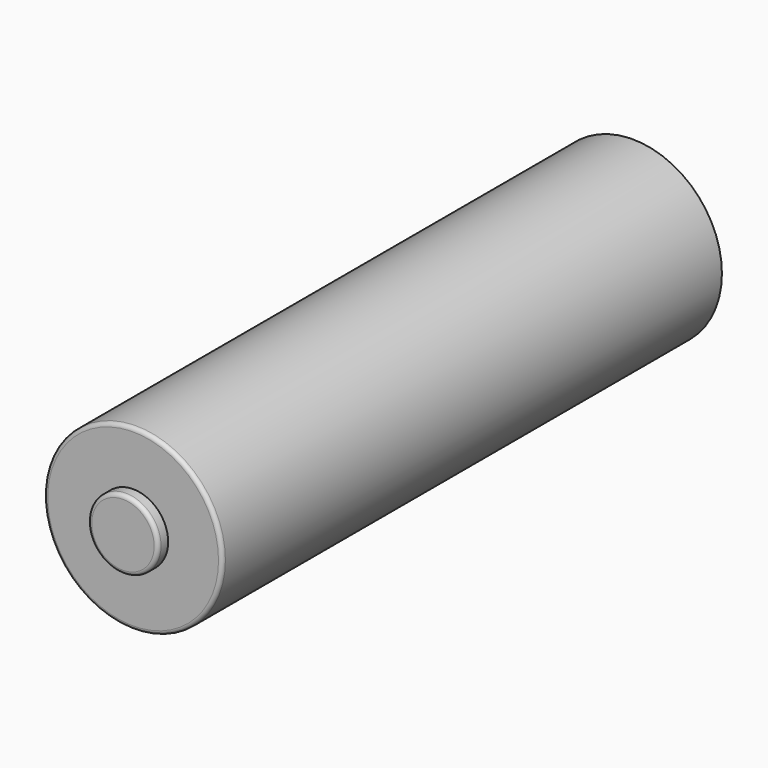
from build123d import *

# Parameters (mm, degrees)
F0_R     = 7
F0_R_2   = 2.75
F1_DEPTH = 49
F2_DEPTH = 1
F3_R     = 0.3


with BuildPart() as f1:
    # F0 (on Front) → F1 (new body)
    with BuildSketch(Plane.XZ):
        Circle(F0_R)
        Circle(F0_R_2, mode=Mode.SUBTRACT)
        Circle(F0_R_2)
    extrude(amount=-F1_DEPTH)

    # F0 (on Front) → F2 (join)
    with BuildSketch(Plane.XZ):
        Circle(F0_R_2)
    extrude(amount=F2_DEPTH)

    # F3
    f3_edges = [f1.edges().sort_by_distance(p)[0] for p in [
        (-2.75, -1, 0),
        (-7, 0, 0),
    ]]
    fillet(f3_edges, radius=F3_R)


solid = f1.part
